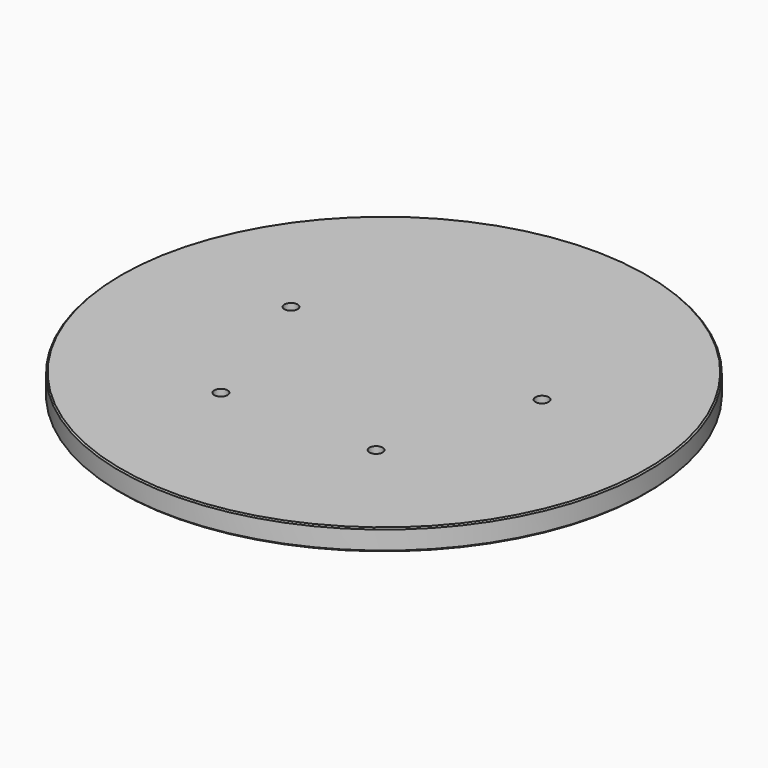
from build123d import *

# Parameters (mm, degrees)
F4_SIZE  = 0.5
F6_D     = 5
F8_DEPTH = 25


with BuildPart() as f1:
    # F0 (on Front) → F1 (revolve)
    with BuildSketch(Plane.XZ):
        Polygon((0, -8), (0, 0), (-100, 0), (-100, -8), (-20, -8), align=None)
    revolve(axis=Axis((0, 0, -4), (0, 0, 1)))

    # F4
    f4_edges = [f1.edges().sort_by_distance(p)[0] for p in [
        (100, 0, 0),
        (100, 0, -8),
    ]]
    chamfer(f4_edges, length=F4_SIZE)

    # F6 (through all)
    with Locations(Plane.XY):
        with Locations((0, 50), (-47.552826, 15.45085), (-29.389263, -40.45085), (29.389263, -40.45085), (47.552826, 15.45085)):
            Hole(F6_D / 2)

    # F7 (on Top) → F8 (join)
    with BuildSketch(Plane.XY):
        Polygon((-15.466388, 80.062874), (-20.562582, 29.104382), (3.462564, 41.819647), (3.462564, 57.898351), (5.469776, 77.969116), align=None)
    extrude(amount=-F8_DEPTH)


with BuildPart() as f2:
    # F0 (on Front) → F2 (revolve)
    with BuildSketch(Plane.XZ):
        Polygon((0, -23), (0, -8), (-20, -8), (-20, -13), (-9.08917, -13), (-6, -13), (-6, -21), (-5.464102, -23), align=None)
        Polygon((0, -23), (0, -8), (-20, -8), (-20, -13), (-9.08917, -13), (-6, -13), (-6, -21), (-5.464102, -23), align=None)
    revolve(axis=Axis((0, 0, -4), (0, 0, 1)))


solid = Compound([f1.part, f2.part])
